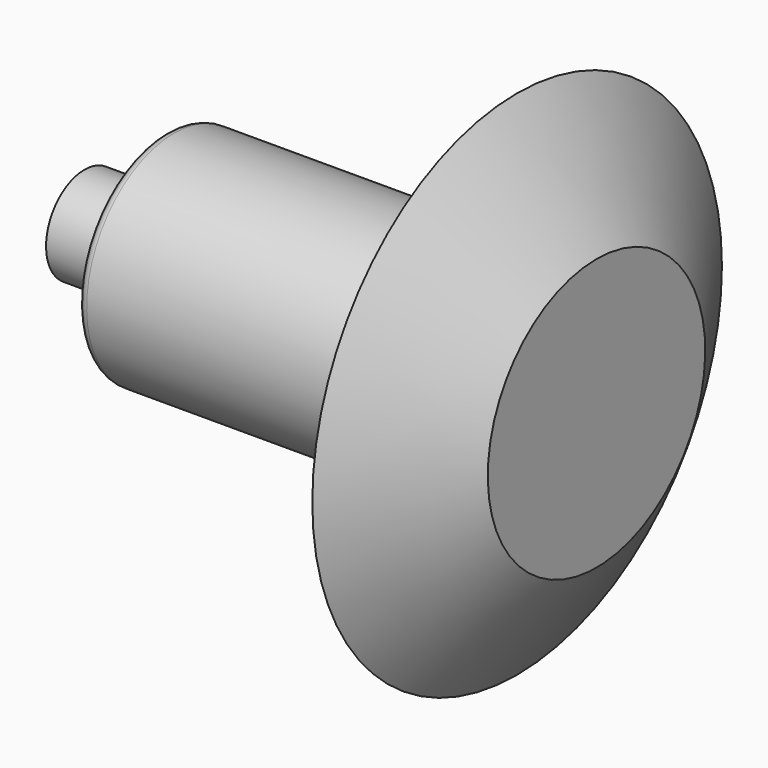
from build123d import *

# Parameters (mm, degrees)
F2_R = 3


with BuildPart() as f1:
    # F0 (on Front) → F1 (revolve)
    with BuildSketch(Plane.XZ):
        Polygon((-160, 15), (-160, 0), (0, 0), (0, 42.460439), (-24.814942, 80), (-24.814942, 42.460439), (-30.361943, 34.139935), (-135, 34.139935), (-135, 15), align=None)
    revolve(axis=Axis((-80, 0, 0), (-1, 0, 0)))

    # F2
    f2_edges = [f1.edges().sort_by_distance(p)[0] for p in [
        (-135, 0, -34.139935),
        (-135, 0, -15),
    ]]
    fillet(f2_edges, radius=F2_R)


solid = f1.part
